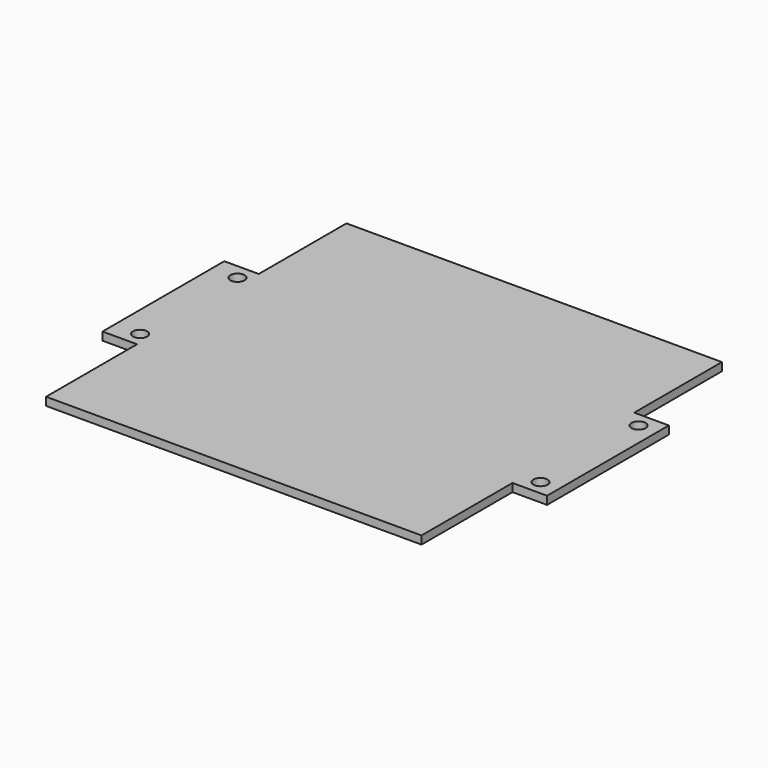
from build123d import *

# Parameters (mm, degrees)
F0_R     = 1.75
F1_DEPTH = 2


with BuildPart() as f1:
    # F0 (on Top) → F1 (new body)
    with BuildSketch(Plane.XY):
        with BuildLine():
            Line((57.7837471709, 69.5580622628), (-34.7162528291, 69.5580622628))
            Line((-34.7162528291, 69.5580622628), (-34.7162528291, 42.5580622628))
            Line((-34.7162528291, 42.5580622628), (-43.2162528291, 42.5580622628))
            Line((-43.2162528291, 42.5580622628), (-43.2162528291, 5.0580622628))
            Line((-43.2162528291, 5.0580622628), (-34.7162528291, 5.0580622628))
            Line((-34.7162528291, 5.0580622628), (-34.7162528291, -22.9419377372))
            Line((-34.7162528291, -22.9419377372), (57.7837471709, -22.9419377372))
            Line((57.7837471709, -22.9419377372), (57.7837471709, 5.0580622628))
            Line((57.7837471709, 5.0580622628), (61.776727438, 5.0580622628))
            Line((61.776727438, 5.0580622628), (61.7764500569, 6.9623562581))
            ThreePointArc((61.7764500569, 6.9623562581), (60.5385780505, 9.9496128474), (63.5261951319, 8.712611146))
            Line((63.5261951319, 8.712611146), (66.3054800854, 8.713015979))
            Line((66.3054800854, 8.713015979), (66.3054800854, 42.5580622628))
            Line((66.3054800854, 42.5580622628), (57.7837471709, 42.5580622628))
            Line((57.7837471709, 42.5580622628), (57.7837471709, 69.5580622628))
        make_face()
        with Locations((-36.9397651508, 8.7772880495)):
            Circle(F0_R, mode=Mode.SUBTRACT)
        with Locations((-36.9361157864, 38.7772880495)):
            Circle(F0_R, mode=Mode.SUBTRACT)
        with Locations((61.7687867672, 38.9017461427)):
            Circle(F0_R, mode=Mode.SUBTRACT)
        with BuildLine():
            Line((66.3054800854, 5.0580622628), (66.3054800854, 8.713015979))
            Line((66.3054800854, 8.713015979), (63.5261951319, 8.712611146))
            ThreePointArc((63.5261951319, 8.712611146), (63.5261951458, 8.7124836928), (63.5261951505, 8.7123562396))
            ThreePointArc((63.5261951505, 8.7123562396), (63.0137221373, 7.4750094988), (61.7764500569, 6.9623562581))
            Line((61.7764500569, 6.9623562581), (61.776727438, 5.0580622628))
            Line((61.776727438, 5.0580622628), (66.3054800854, 5.0580622628))
        make_face()
    extrude(amount=F1_DEPTH)


solid = f1.part
